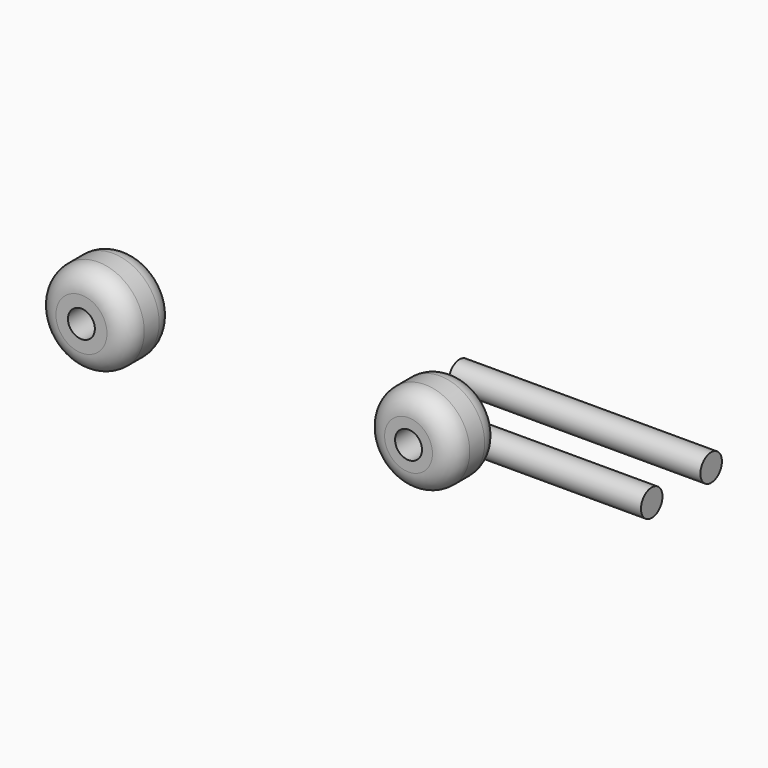
from build123d import *

# Parameters (mm, degrees)
F0_R     = 11.343301
F0_R_2   = 10.951385
F1_DEPTH = 14.732
F2_R     = 5.08
F3_R     = 3.302
F4_DEPTH = 61.722
F7_D     = 6.604
F7_DEPTH = 50.8
F8_D     = 6.604
F8_DEPTH = 50.8


with BuildPart() as f1:
    # F0 (on Front) → F1 (new body)
    with BuildSketch(Plane.XZ):
        with Locations((-49.337648, 47.257137)):
            Circle(F0_R)
        with Locations((30.910328, 47.257137)):
            Circle(F0_R_2)
    extrude(amount=F1_DEPTH)

    # F2
    f2_edges = [f1.edges().sort_by_distance(p)[0] for p in [
        (19.958943, -14.732, 47.257137),
        (19.958943, 0, 47.257137),
        (-60.680949, 0, 47.257137),
        (-60.680949, -14.732, 47.257137),
    ]]
    fillet(f2_edges, radius=F2_R)

    # F7
    with Locations(Plane.XZ.offset(14.732)):
        with Locations((-49.345396, 47.275476)):
            Hole(F7_D / 2, depth=F7_DEPTH)

    # F8
    with Locations(Plane.XZ.offset(14.732)):
        with Locations((30.910328, 47.257137)):
            Hole(F8_D / 2, depth=F8_DEPTH)


with BuildPart() as f4:
    # F3 (on Right) → F4 (new body)
    with BuildSketch(Plane.YZ):
        with Locations((21.331351, 30.130013)):
            Circle(F3_R)
        with Locations((39.554021, 30.303562)):
            Circle(F3_R)
    extrude(amount=F4_DEPTH)


solid = Compound([f1.part, f4.part])
